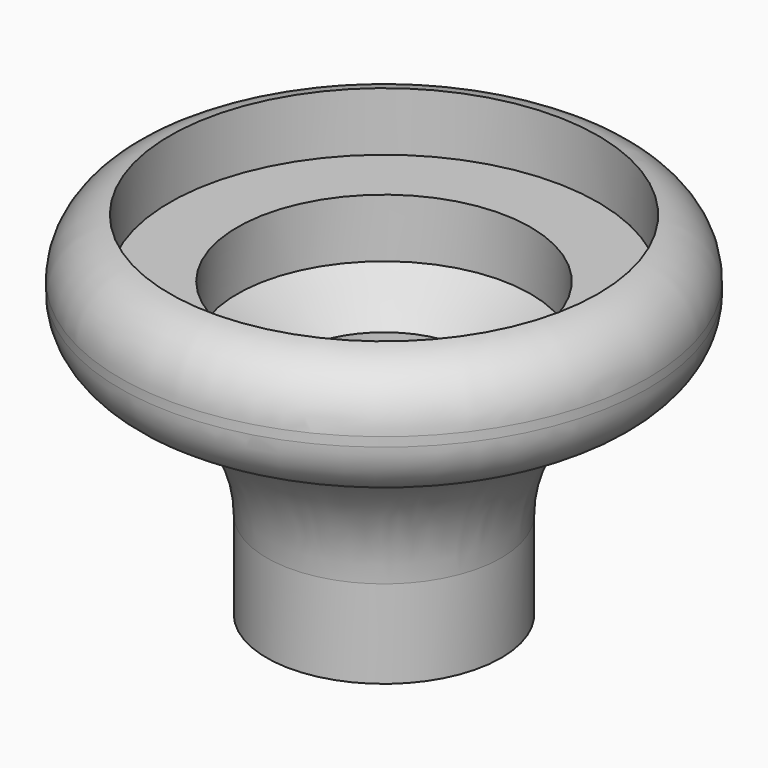
from build123d import *


with BuildPart() as f1:
    # F0 (on Front) → F1 (revolve)
    with BuildSketch(Plane.XZ):
        with BuildLine():
            Line((9, 9.708204), (9, 10.022628))
            ThreePointArc((9, 10.022628), (8.516575, 11.326468), (7.3, 12))
            Line((7.3, 12), (7.3, 10))
            Line((7.3, 10), (5, 10))
            Line((5, 10), (5, 8))
            Line((5, 8), (3.1, 6.858365))
            Line((3.1, 6.858365), (3.1, 0))
            Line((3.1, 0), (4, 0))
            Line((4, 0), (4, 3))
            ThreePointArc((4, 3), (4.991081, 5.988072), (7.571429, 7.791574))
            ThreePointArc((7.571429, 7.791574), (8.603567, 8.512975), (9, 9.708204))
        make_face()
    revolve(axis=Axis((0, 0, 6), (0, 0, 1)))


solid = f1.part
